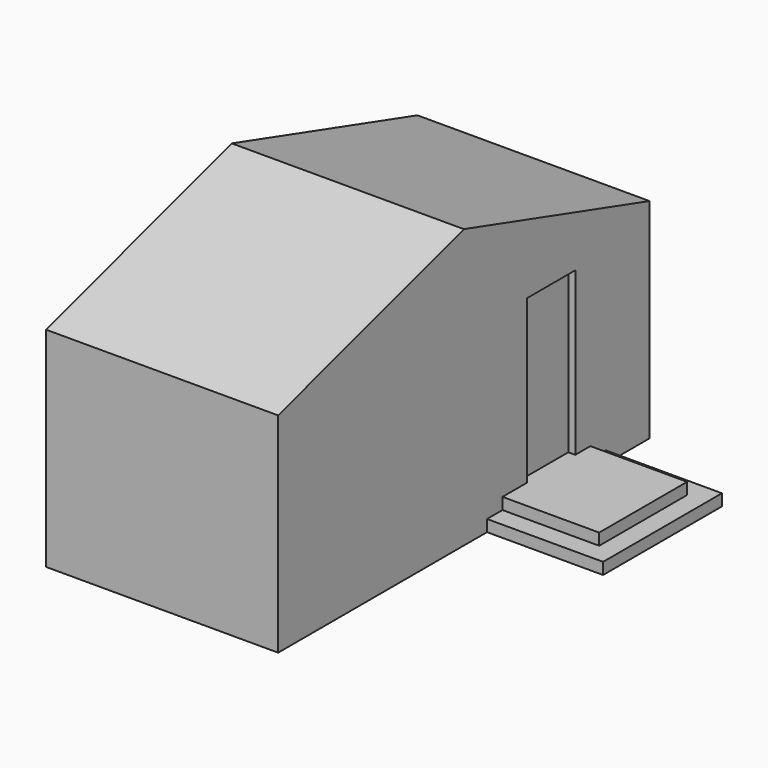
from build123d import *

# Parameters (mm, degrees)
F2_W     = 127
F2_H     = 162.576706
F3_DEPTH = 12.7
F4_W     = 105.833333
F4_H     = 120.243372
F5_DEPTH = 12.7
F6_DEPTH = 254
F1_W     = 66.04
F1_H     = 177.8
F7_DEPTH = 7.62


with BuildPart() as f3:
    # F2 (on Top) → F3 (new body)
    with BuildSketch(Plane.XY):
        with Locations((63.5, 366.946444)):
            Rectangle(F2_W, F2_H)
    extrude(amount=F3_DEPTH)

    # F4 (on face) → F5 (join)
    with BuildSketch(Plane.XY.offset(12.7)):
        with Locations((52.916666, 366.946444)):
            Rectangle(F4_W, F4_H)
    extrude(amount=F5_DEPTH)

    # F0 (on Right) → F6 (join)
    with BuildSketch(Plane.YZ):
        Polygon((0, 228.6), (0, 0), (508, 0), (508, 228.6), (254, 304.8), align=None)
    extrude(amount=-F6_DEPTH)

    # F1 (on Right) → F7 (cut)
    with BuildSketch(Plane.YZ):
        with Locations((373.38, 114.3)):
            Rectangle(F1_W, F1_H)
    extrude(amount=-F7_DEPTH, mode=Mode.SUBTRACT)


solid = f3.part
